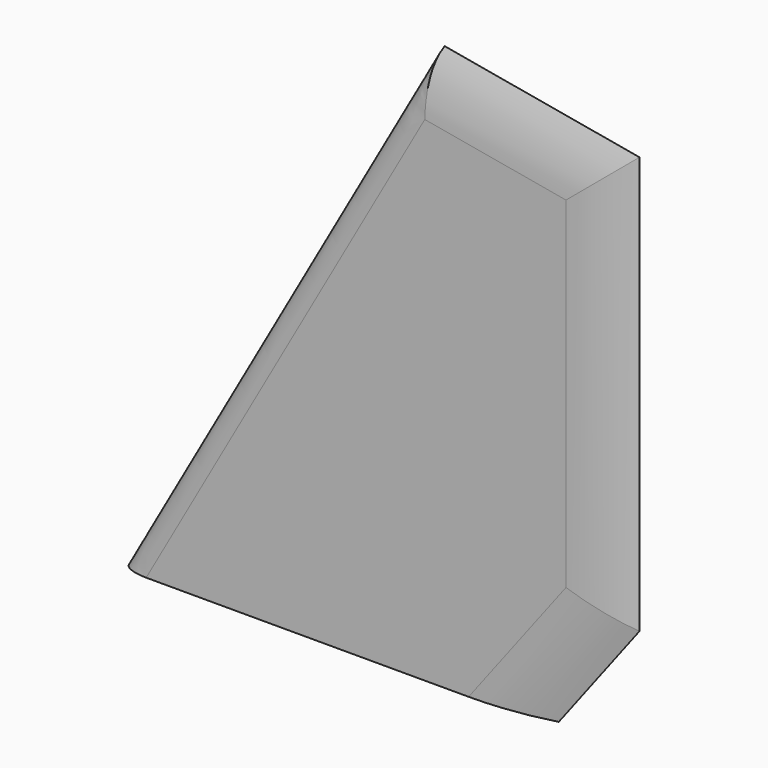
from build123d import *

# Parameters (mm, degrees)
F1_DEPTH  = 1.190625
F4_DEPTH  = 81.1157430976
F7_DEPTH  = 38.1
F9_DEPTH  = 61.4690001
F12_DEPTH = 38.1


with BuildPart() as f1:
    # F0 (on Front) → F1 (new body, symmetric)
    with BuildSketch(Plane.XZ):
        Polygon((34.6639213115, 61.468), (0, 0), (47.244, 0), (56.134, 11.684), (56.134, 57.6660068989), align=None)
    extrude(amount=F1_DEPTH, both=True)

    # F3 (on line) → F4 (cut, through all)
    with BuildSketch(Plane(origin=(0, 0, 0), x_dir=(0.8710411332, 0, -0.4912100817), z_dir=(0.4912100817, 0, 0.8710411332))):
        with BuildLine():
            add(Edge.make_bspline(
                [(2.38125, 1.190625), (0, 1.190625), (0, 0)],
                knots=[4.7123889804, 4.7123889804, 4.7123889804, 6.2831853072, 6.2831853072, 6.2831853072], degree=2, weights=[1, 0.7071067812, 1]))
            Line((2.38125, 1.190625), (20.5688990118, 1.190625))
            Line((20.5688990118, 1.190625), (20.5688990118, 12.7))
            Line((20.5688990118, 12.7), (-12.7, 12.7))
            Line((-12.7, 12.7), (-12.7, -12.7))
            Line((-12.7, -12.7), (20.5688990118, -12.7))
            Line((20.5688990118, -12.7), (20.5688990118, -1.190625))
            Line((20.5688990118, -1.190625), (2.38125, -1.190625))
            add(Edge.make_bspline(
                [(0, 0), (0, -1.190625), (2.38125, -1.190625)],
                knots=[0, 0, 0, 1.5707963268, 1.5707963268, 1.5707963268], degree=2, weights=[1, 0.7071067812, 1]))
        make_face()
    extrude(amount=F4_DEPTH, mode=Mode.SUBTRACT)

    # F6 (on line) → F7 (cut, symmetric)
    with BuildSketch(Plane(origin=(17.3223286441, 0, 22.7664890751), x_dir=(0.7958286941, 0, -0.6055218325), z_dir=(-0.6055218325, 0, -0.7958286941))):
        with BuildLine():
            ThreePointArc((37.598130825, 0), (34.0755253939, -0.8909299129), (30.454380825, -1.190625))
            Line((30.454380825, -1.190625), (30.454380825, -3.730625))
            Line((30.454380825, -3.730625), (40.138130825, -3.730625))
            Line((40.138130825, -3.730625), (40.138130825, 3.730625))
            Line((40.138130825, 3.730625), (30.454380825, 3.730625))
            Line((30.454380825, 3.730625), (30.454380825, 1.190625))
            ThreePointArc((30.454380825, 1.190625), (34.0755253939, 0.8909299129), (37.598130825, 0))
        make_face()
    extrude(amount=F7_DEPTH, both=True, mode=Mode.SUBTRACT)

    # F8 (on Top) → F9 (cut, through all)
    with BuildSketch(Plane.XY):
        with BuildLine():
            Line((48.99025, -1.190625), (48.99025, -3.730625))
            Line((48.99025, -3.730625), (58.674, -3.730625))
            Line((58.674, -3.730625), (58.674, 3.730625))
            Line((58.674, 3.730625), (48.99025, 3.730625))
            Line((48.99025, 3.730625), (48.99025, 1.190625))
            ThreePointArc((48.99025, 1.190625), (52.6113945688, 0.8909299129), (56.134, 0))
            ThreePointArc((56.134, 0), (52.6113945688, -0.8909299129), (48.99025, -1.190625))
        make_face()
    extrude(amount=F9_DEPTH, mode=Mode.SUBTRACT)

    # F11 (on line) → F12 (cut, symmetric)
    with BuildSketch(Plane(origin=(44.526041109, 0, -7.8848197797), x_dir=(0, 1, 0), z_dir=(0.9846801257, 0, -0.1743704389))):
        with BuildLine():
            ThreePointArc((-1.190625, 59.4269311432), (-0.8909299129, 63.048075712), (0, 66.5706811432))
            ThreePointArc((0, 66.5706811432), (0.8909299129, 63.048075712), (1.190625, 59.4269311432))
            Line((1.190625, 59.4269311432), (3.730625, 59.4269311432))
            Line((3.730625, 59.4269311432), (3.730625, 69.1106811432))
            Line((3.730625, 69.1106811432), (0, 69.1106811432))
            Line((0, 69.1106811432), (-3.730625, 69.1106811432))
            Line((-3.730625, 69.1106811432), (-3.730625, 59.4269311432))
            Line((-3.730625, 59.4269311432), (-1.190625, 59.4269311432))
        make_face()
    extrude(amount=F12_DEPTH, both=True, mode=Mode.SUBTRACT)


solid = f1.part
